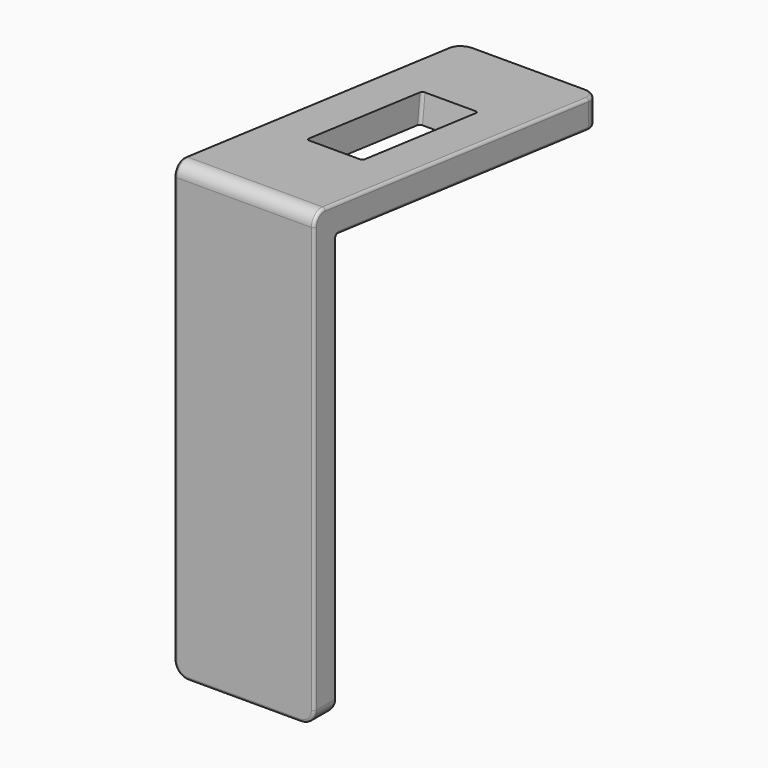
from build123d import *

# Parameters (mm, degrees)
F1_DEPTH = 6.35
F2_R     = 1.27
F3_R     = 0.254
F5_DEPTH = 2.5236418215


with BuildPart() as f1:
    # F0 (on Right) → F1 (new body, symmetric)
    with BuildSketch(Plane.YZ):
        with BuildLine():
            Line((-20.3536781971, 19.8174831357), (9.2510120329, 16.4412551424))
            Line((9.2510120329, 16.4412551424), (9.2510120329, 18.9812551424))
            Line((9.2510120329, 18.9812551424), (-21.8487802355, 22.5279900829))
            ThreePointArc((-21.8487802355, 22.5279900829), (-22.7318674452, 22.2475119605), (-23.1106011462, 21.4018927905))
            Line((-23.1106011462, 21.4018927905), (-23.1106011462, -18.4179837987))
            Line((-23.1106011462, -18.4179837987), (-20.5706011462, -18.4179837987))
            Line((-20.5706011462, -18.4179837987), (-20.5706011462, 19.6238927905))
            ThreePointArc((-20.5706011462, 19.6238927905), (-20.5054920403, 19.7692654045), (-20.3536781971, 19.8174831357))
        make_face()
    extrude(amount=F1_DEPTH, both=True)

    # F2
    f2_edges = [f1.edges().sort_by_distance(p)[0] for p in [
        (6.35, 9.251012, 17.711255),
        (-6.35, 9.251012, 17.711255),
        (-6.35, -21.840601, -18.417984),
        (6.35, -21.840601, -18.417984),
    ]]
    fillet(f2_edges, radius=F2_R)

    # F3
    f3_edges = [f1.edges().sort_by_distance(p)[0] for p in [
        (6.35, -23.110601, 2.126954),
        (6.35, -20.570601, 1.237954),
    ]]
    fillet(f3_edges, radius=F3_R)

    # F4 (on face) → F5 (cut, through all)
    with BuildSketch(Plane(origin=(0, 2.2556734095, 19.779029343), x_dir=(1, 0, 0), z_dir=(0, 0.1133092186, 0.9935597722))):
        with BuildLine():
            Line((2.3688334775, -2.1236329222), (-2.2031665225, -2.1236329222))
            ThreePointArc((-2.2031665225, -2.1236329222), (-2.382771645, -2.1980277998), (-2.4571665225, -2.3776329222))
            Line((-2.4571665225, -2.3776329222), (-2.4571665225, -15.0776329222))
            ThreePointArc((-2.4571665225, -15.0776329222), (-2.382771645, -15.2572380446), (-2.2031665225, -15.3316329222))
            Line((-2.2031665225, -15.3316329222), (2.3688334775, -15.3316329222))
            ThreePointArc((2.3688334775, -15.3316329222), (2.5484385999, -15.2572380446), (2.6228334775, -15.0776329222))
            Line((2.6228334775, -15.0776329222), (2.6228334775, -2.3776329222))
            ThreePointArc((2.6228334775, -2.3776329222), (2.5484385999, -2.1980277998), (2.3688334775, -2.1236329222))
        make_face()
    extrude(amount=-F5_DEPTH, mode=Mode.SUBTRACT)


solid = f1.part
